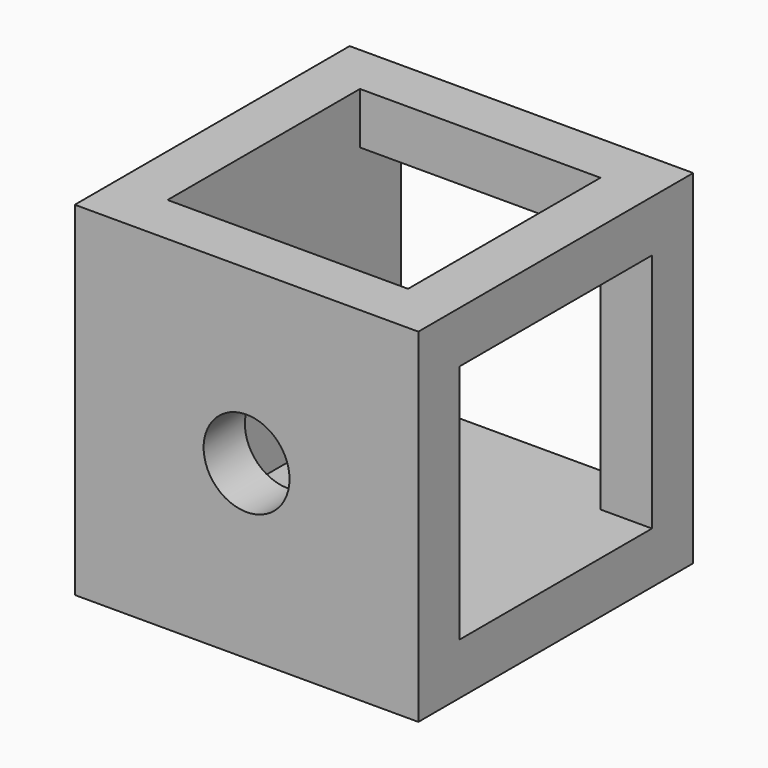
from build123d import *

# Parameters (mm, degrees)
SKETCH012_W     = 20
SKETCH012_H     = 20
PAD012_DEPTH    = 10
SKETCH013_R     = 2.5
HOLE_DEPTH      = 25
SKETCH014_R     = 2.5
HOLE001_DEPTH   = 25
SKETCH015_R     = 2.5
HOLE002_DEPTH   = 25
SKETCH016_W     = 14
SKETCH016_H     = 14
POCKET_DEPTH    = 17
SKETCH017_W     = 14
SKETCH017_H     = 14
POCKET001_DEPTH = 17
SKETCH018_W     = 14
SKETCH018_H     = 14
POCKET002_DEPTH = 17


with BuildPart() as part:
    # Sketch012 → Pad012 (new body, symmetric)
    with BuildSketch(Plane.XZ):
        Rectangle(SKETCH012_W, SKETCH012_H)
    extrude(amount=PAD012_DEPTH, both=True)

    # Sketch013 (on Face1 of Pad012) → Hole (cut)
    with BuildSketch(Plane(origin=(0, 0, 10), x_dir=(-1, 0, 0), z_dir=(0, 0, 1))):
        Circle(SKETCH013_R)
    extrude(amount=-HOLE_DEPTH, mode=Mode.SUBTRACT)

    # Sketch014 (on Face2 of Hole) → Hole001 (cut)
    with BuildSketch(Plane(origin=(10, 0, 0), x_dir=(0, 0, 1), z_dir=(1, 0, 0))):
        Circle(SKETCH014_R)
    extrude(amount=-HOLE001_DEPTH, mode=Mode.SUBTRACT)

    # Sketch015 (on Face3 of Hole) → Hole002 (cut)
    with BuildSketch(Plane(origin=(0, 10, 0), x_dir=(1, 0, 0), z_dir=(0, 1, 0))):
        Circle(SKETCH015_R)
    extrude(amount=-HOLE002_DEPTH, mode=Mode.SUBTRACT)

    # Sketch016 (on Face2 of Hole002) → Pocket (cut)
    with BuildSketch(Plane(origin=(10, 0, 0), x_dir=(0, 0, 1), z_dir=(1, 0, 0))):
        Rectangle(SKETCH016_W, SKETCH016_H)
    extrude(amount=-POCKET_DEPTH, mode=Mode.SUBTRACT)

    # Sketch017 (on Face3 of Pocket) → Pocket001 (cut)
    with BuildSketch(Plane(origin=(0, 10, 0), x_dir=(1, 0, 0), z_dir=(0, 1, 0))):
        Rectangle(SKETCH017_W, SKETCH017_H)
    extrude(amount=-POCKET001_DEPTH, mode=Mode.SUBTRACT)

    # Sketch018 (on Face1 of Pocket001) → Pocket002 (cut)
    with BuildSketch(Plane(origin=(0, 0, 10), x_dir=(-1, 0, 0), z_dir=(0, 0, 1))):
        Rectangle(SKETCH018_W, SKETCH018_H)
    extrude(amount=-POCKET002_DEPTH, mode=Mode.SUBTRACT)


solid = part.part
